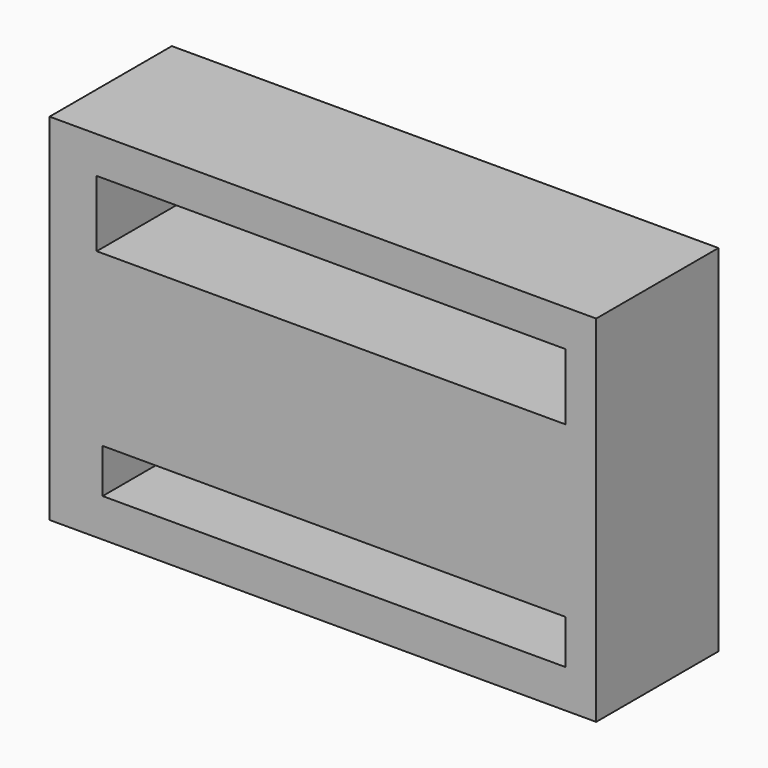
from build123d import *

# Parameters (mm, degrees)
F0_W     = 90.862494
F0_H     = 59.023885
F0_W_2   = 76.90249
F0_H_2   = 7.347371
F0_W_3   = 77.882137
F0_H_3   = 11.021057
F1_DEPTH = 25.4
F2_W     = 24.723197
F2_H     = 7.40096
F3_DEPTH = 81.788


with BuildPart() as f1:
    # F0 (on Front) → F1 (new body)
    with BuildSketch(Plane.XZ):
        with Locations((-5.370447, 10.444109)):
            Rectangle(F0_W, F0_H)
        with Locations((-3.533604, -9.026424)):
            Rectangle(F0_W_2, F0_H_2, mode=Mode.SUBTRACT)
        with Locations((-4.023428, 28.322714)):
            Rectangle(F0_W_3, F0_H_3, mode=Mode.SUBTRACT)
    extrude(amount=F1_DEPTH)

    # F2 (on Front) → F3 (cut)
    with BuildSketch(Plane.XZ):
        with Locations((-26.649445, 12.346085)):
            Rectangle(F2_W, F2_H)
    extrude(amount=-F3_DEPTH, mode=Mode.SUBTRACT)


solid = f1.part
